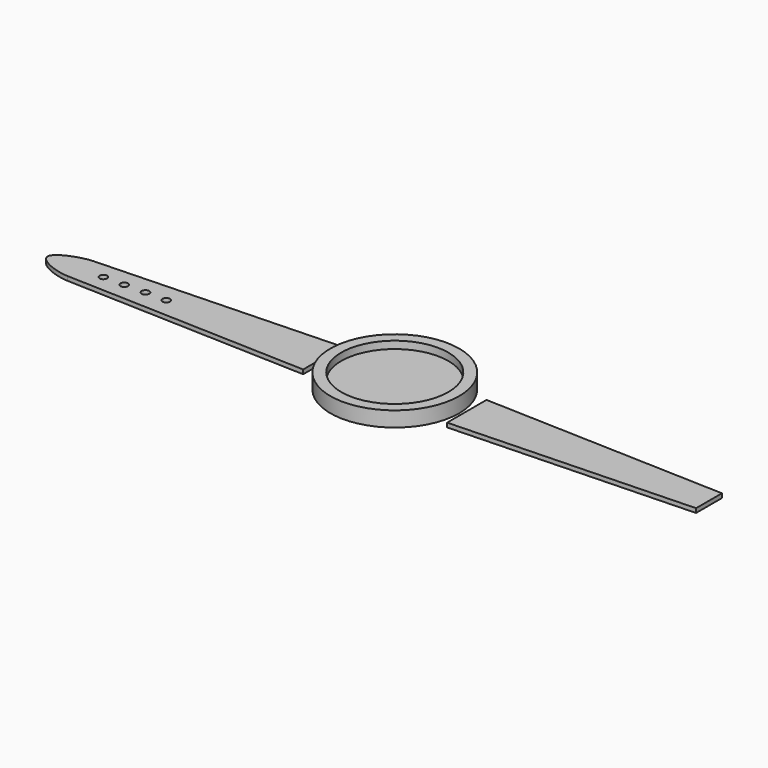
from build123d import *

# Parameters (mm, degrees)
F0_R     = 22.450054
F0_R_2   = 27
F1_DEPTH = 3.175
F2_DEPTH = 6.35
F0_R_3   = 1.5875
F0_R_4   = 1.6002
F3_DEPTH = 1.778
F4_R     = 24.068586
F5_DEPTH = 3.175
F6_DEPTH = 3.2512


with BuildPart() as f1:
    # F0 (on Top) → F1 (new body)
    with BuildSketch(Plane.XY):
        Circle(F0_R)
        Circle(F0_R_2)
        Circle(F0_R, mode=Mode.SUBTRACT)
    extrude(amount=F1_DEPTH)

    # F0 (on Top) → F2 (join)
    with BuildSketch(Plane.XY):
        Circle(F0_R_2)
        Circle(F0_R, mode=Mode.SUBTRACT)
    extrude(amount=F2_DEPTH)

    # F4 (on Top) → F5 (join)
    with BuildSketch(Plane.XY):
        Circle(F4_R)
    extrude(amount=F5_DEPTH)


with BuildPart() as f3:
    # F0 (on Top) → F3 (new body)
    with BuildSketch(Plane.XY):
        Polygon((-30.175, -10.3124), (-30.175, 10.3251), (-131.713108, 6.779311), (-131.713108, -6.766611), align=None)
        with Locations((-122.188108, -7e-06)):
            Circle(F0_R_3, mode=Mode.SUBTRACT)
        with Locations((-113.413251, 0)):
            Circle(F0_R_4, mode=Mode.SUBTRACT)
        with Locations((-104.625644, 0.11808)):
            Circle(F0_R_4, mode=Mode.SUBTRACT)
        with Locations((-95.837954, 0.006335)):
            Circle(F0_R_4, mode=Mode.SUBTRACT)
        Polygon((131.713108, 6.792011), (30.175, 10.3378), (30.175, -10.291978), (131.713108, -6.746189), align=None)
        with BuildLine():
            Line((-131.713108, -6.766611), (-131.713108, 6.779311))
            add(Edge.make_bspline(
                [(-131.713108, 6.779311), (-136.656503, 6.593467), (-154.619379, 0.088982), (-136.462635, -6.766611), (-131.713108, -6.766611)],
                knots=[0, 0, 0, 0, 15.443837, 30.882103, 30.882103, 30.882103, 30.882103], degree=3))
        make_face()
    extrude(amount=F3_DEPTH)


with BuildPart() as f6:
    # F4 (on Top) → F6 (new body)
    with BuildSketch(Plane.XY):
        Circle(F4_R)
    extrude(amount=F6_DEPTH)


solid = Compound([f1.part, f3.part, f6.part])
